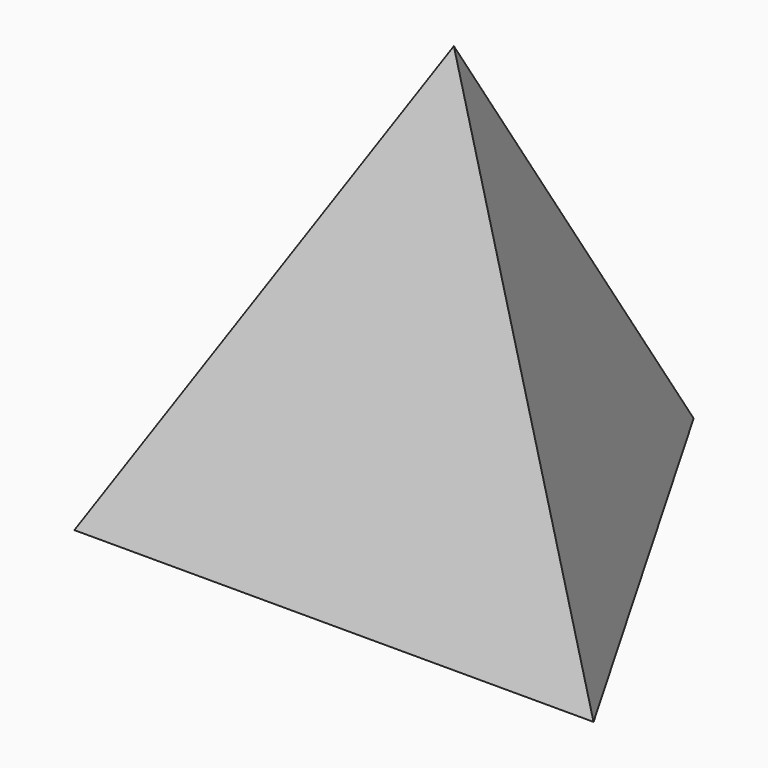
from build123d import *


with BuildPart() as f2:
    # F0 (on Top) → F2 section 0
    with BuildSketch(Plane.XY, mode=Mode.PRIVATE) as f2_s0:
        Polygon((0, 28.867513), (-25, -14.433757), (25, -14.433757), align=None)
    loft([f2_s0.sketch, Vertex(0, 0, 43.3)])


solid = f2.part
